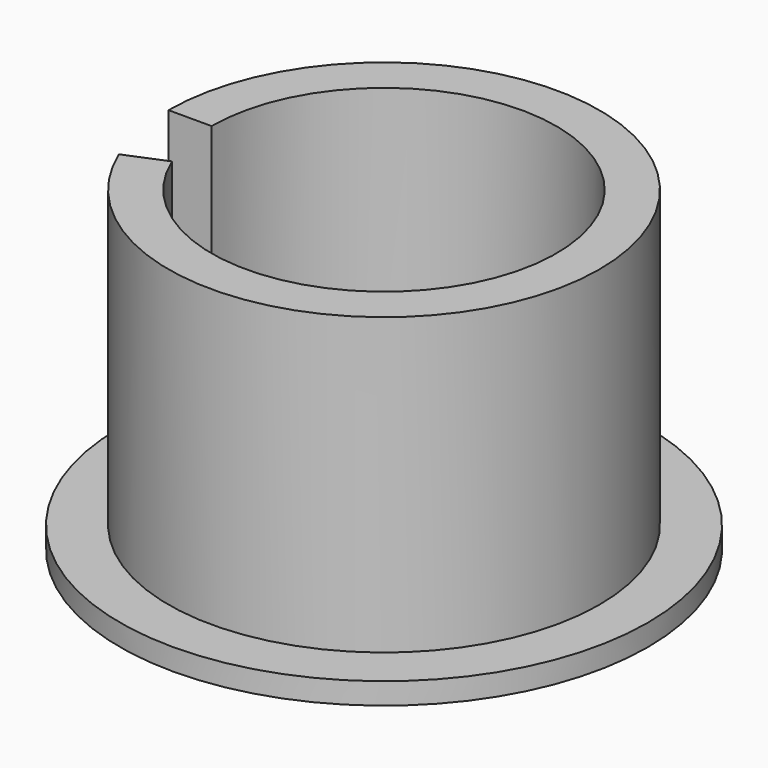
from build123d import *

# Parameters (mm, degrees)
F0_W     = 5.08
F0_H     = 34.798
F1_ANGLE = 337.5
F3_R     = 2.032
F4_DEPTH = 10.60485


with BuildPart() as f1:
    # F0 (on Front) → F1 (revolve)
    with BuildSketch(Plane.XZ):
        with Locations((-22.86, 19.939)):
            Rectangle(F0_W, F0_H)
    revolve(axis=Axis((0, 0, 19.939), (0, 0, -1)), revolution_arc=F1_ANGLE)

    # F0 (on Front) → F2 (revolve)
    with BuildSketch(Plane.XZ):
        Polygon((-31.115, 0), (0, 0), (0, 2.54), (-20.32, 2.54), (-25.4, 2.54), (-31.115, 2.54), align=None)
    revolve(axis=Axis((0, 0, 19.939), (0, 0, -1)))

    # F3 (on face) → F4 (cut)
    with BuildSketch(Plane(origin=(0, 0, 0), x_dir=(1, 0, 0), z_dir=(0, 0, -1))):
        with BuildLine():
            Line((0, 0), (6.35, 0))
            ThreePointArc((6.35, 0), (4.490128, 4.490128), (0, 6.35))
            Line((0, 6.35), (0, 0))
        make_face()
        with BuildLine():
            ThreePointArc((2.032, -9.779), (1.436841, -8.342159), (0, -7.747))
            ThreePointArc((0, -7.747), (-1.436841, -11.215841), (2.032, -9.779))
        make_face()
        with Locations((-9.779, 0)):
            Circle(F3_R)
        with BuildLine():
            ThreePointArc((2.032, 9.779), (-1.436841, 11.215841), (0, 7.747))
            ThreePointArc((0, 7.747), (1.436841, 8.342159), (2.032, 9.779))
        make_face()
        with BuildLine():
            ThreePointArc((0, -6.35), (4.490128, -4.490128), (6.35, 0))
            Line((6.35, 0), (0, 0))
            Line((0, 0), (0, -6.35))
        make_face()
        with BuildLine():
            ThreePointArc((11.811, 0), (9.779, 2.032), (7.747, 0))
            ThreePointArc((7.747, 0), (9.779, -2.032), (11.811, 0))
        make_face()
        with BuildLine():
            Line((0, 0), (0, 6.35))
            ThreePointArc((0, 6.35), (-4.490128, 4.490128), (-6.35, 0))
            Line((-6.35, 0), (0, 0))
        make_face()
        with BuildLine():
            ThreePointArc((-6.35, 0), (-4.490128, -4.490128), (0, -6.35))
            Line((0, -6.35), (0, 0))
            Line((0, 0), (-6.35, 0))
        make_face()
    extrude(amount=-F4_DEPTH, mode=Mode.SUBTRACT)


solid = f1.part
